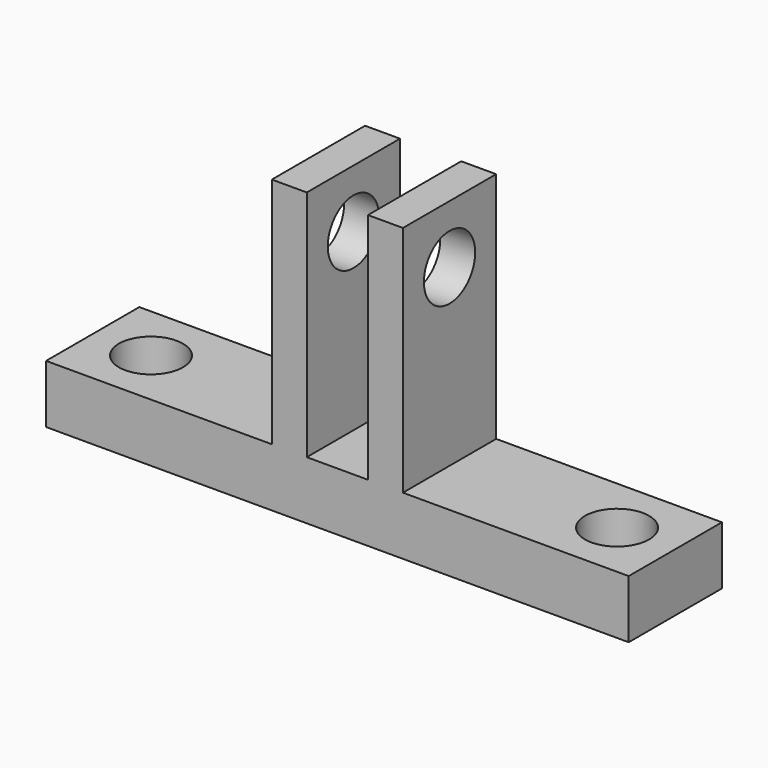
from build123d import *

# Parameters (mm, degrees)
F0_W     = 50
F0_H     = 10
F1_DEPTH = 5
F3_D     = 5.5
F4_W     = 3
F4_H     = 10
F5_DEPTH = 20
F7_D     = 5.5


with BuildPart() as f1:
    # F0 (on Top) → F1 (new body)
    with BuildSketch(Plane.XY):
        Rectangle(F0_W, F0_H)
    extrude(amount=F1_DEPTH)

    # F3 (through all)
    with Locations(Plane.XY.offset(5)):
        with Locations((-20, 0), (20, 0)):
            Hole(F3_D / 2)

    # F4 (on face) → F5 (join)
    with BuildSketch(Plane.XY.offset(5)):
        with Locations((-4.125, 0)):
            Rectangle(F4_W, F4_H)
        with Locations((4.125, 0)):
            Rectangle(F4_W, F4_H)
    extrude(amount=F5_DEPTH)

    # F7 (through all)
    with Locations(Plane(origin=(-5.625, 0, 0), x_dir=(0, -1, 0), z_dir=(-1, 0, 0))):
        with Locations((0, 20)):
            Hole(F7_D / 2)


solid = f1.part
